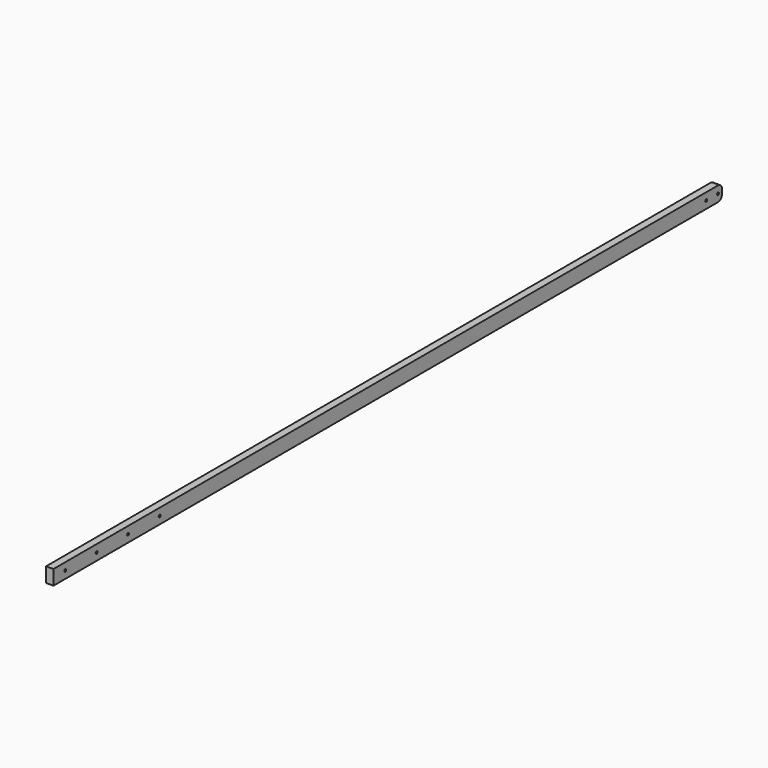
from build123d import *

# Parameters (mm, degrees)
F0_W     = 19.05
F0_H     = 38.1
F1_DEPTH = 2159
F2_R     = 3.175
F3_DEPTH = 19.051
F4_R     = 12.7


with BuildPart() as f1:
    # F0 (on Front) → F1 (new body)
    with BuildSketch(Plane.XZ):
        with Locations((9.525, 19.05)):
            Rectangle(F0_W, F0_H)
    extrude(amount=-F1_DEPTH)

    # F2 (on face) → F3 (cut, through all)
    with BuildSketch(Plane.YZ.offset(19.05)):
        with Locations((38.1, 19.05)):
            Circle(F2_R)
        with Locations((2146.3, 19.05)):
            Circle(F2_R)
        with Locations((2108.2, 19.05)):
            Circle(F2_R)
        with Locations((139.7, 19.05)):
            Circle(F2_R)
        with Locations((241.3, 19.05)):
            Circle(F2_R)
        with Locations((342.9, 19.05)):
            Circle(F2_R)
    extrude(amount=-F3_DEPTH, mode=Mode.SUBTRACT)

    # F4
    f4_edges = [f1.edges().sort_by_distance(p)[0] for p in [
        (9.525, 2159, 38.1),
        (9.525, 2159, 0),
    ]]
    fillet(f4_edges, radius=F4_R)


solid = f1.part
